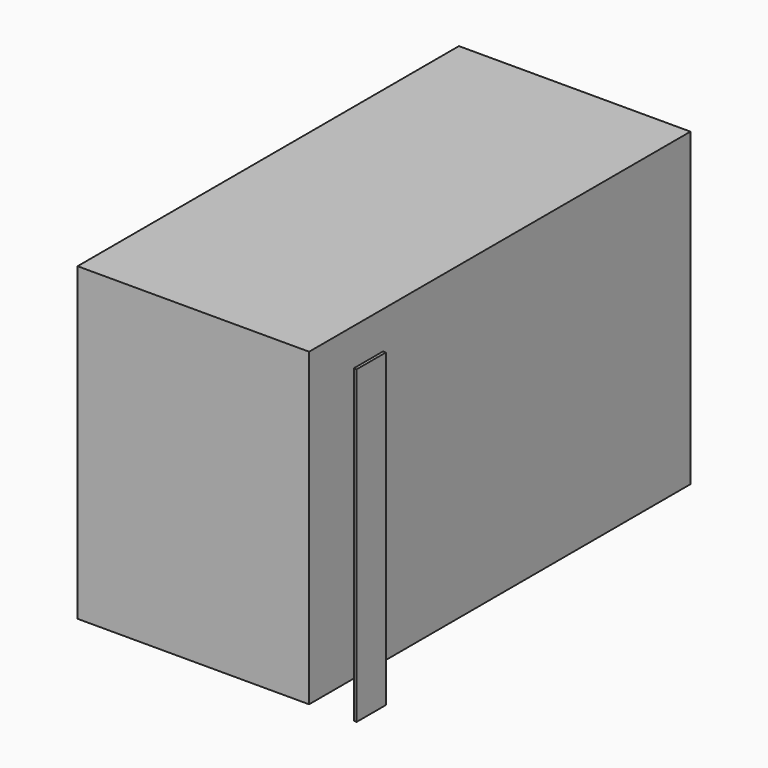
from build123d import *

# Parameters (mm, degrees)
F0_W     = 44.850058
F0_H     = 92.344456
F0_W_2   = 0.553034
F0_H_2   = 7.054284
F1_DEPTH = 60.13535


with BuildPart() as f1:
    # F0 (on Top) → F1 (new body)
    with BuildSketch(Plane.XY):
        with Locations((5.64472, -2.841439)):
            Rectangle(F0_W, F0_H)
        with Locations((37.014365, -45.486525)):
            Rectangle(F0_W_2, F0_H_2)
    extrude(amount=F1_DEPTH)


solid = f1.part
